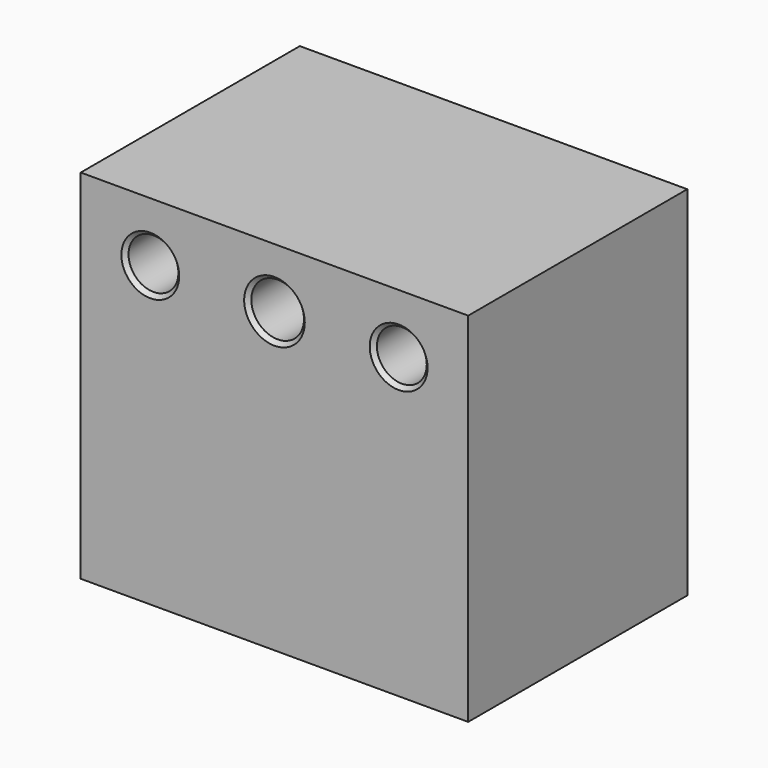
from build123d import *

# Parameters (mm, degrees)
F0_W     = 49.53
F0_H     = 45.72
F1_DEPTH = 35.0012
F3_R     = 3.1877
F4_DEPTH = 35.0022
F3_R_2   = 3.3655
F5_DEPTH = 35.0022
F6_SIZE  = 0.508


with BuildPart() as f1:
    # F0 (on Front) → F1 (new body)
    with BuildSketch(Plane.XZ):
        with Locations((0, -3.515769)):
            Rectangle(F0_W, F0_H)
    extrude(amount=F1_DEPTH)

    # F3 (on face) → F4 (cut, through all)
    with BuildSketch(Plane.XZ.offset(35.0012)):
        with Locations((-15.875, 11.775031)):
            Circle(F3_R)
        with Locations((15.875, 11.775031)):
            Circle(F3_R)
    extrude(amount=-F4_DEPTH, mode=Mode.SUBTRACT)

    # F3 (on face) → F5 (cut, through all)
    with BuildSketch(Plane.XZ.offset(35.0012)):
        with Locations((0, 11.775031)):
            Circle(F3_R_2)
    extrude(amount=-F5_DEPTH, mode=Mode.SUBTRACT)

    # F6
    f6_edges = [f1.edges().sort_by_distance(p)[0] for p in [
        (-3.3655, 0, 11.775031),
        (12.6873, -35.0012, 11.775031),
        (-3.3655, -35.0012, 11.775031),
        (-19.0627, -35.0012, 11.775031),
        (12.6873, 0, 11.775031),
        (-19.0627, 0, 11.775031),
    ]]
    chamfer(f6_edges, length=F6_SIZE)


solid = f1.part
